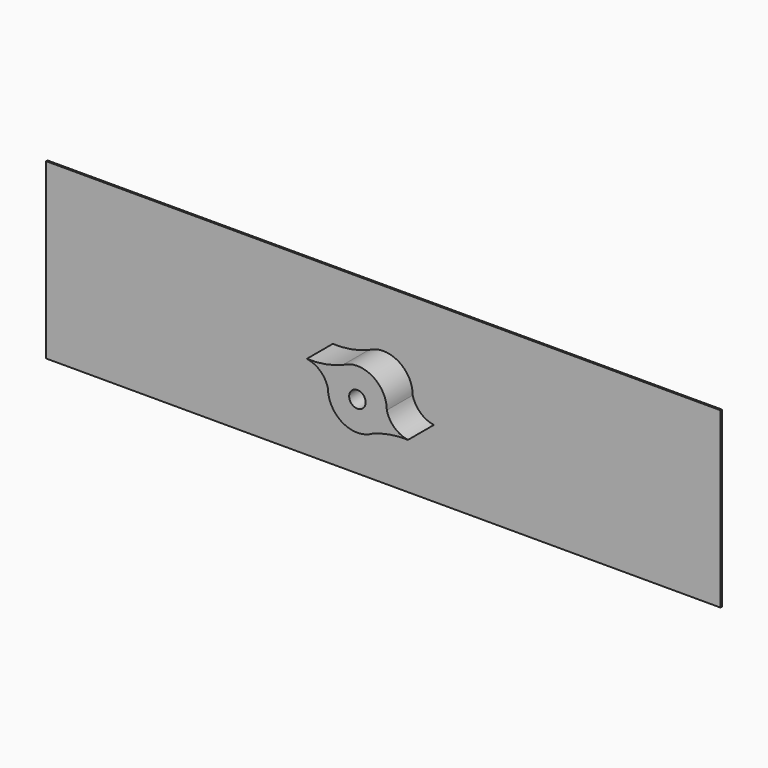
from build123d import *

# Parameters (mm, degrees)
F3_DEPTH = 62
F1_W     = 1227
F1_H     = 316
F4_DEPTH = 3.1


with BuildPart() as f3:
    # F0 (on Front) → F3 (new body, through all)
    with BuildSketch(Plane.XZ):
        with BuildLine():
            ThreePointArc((-92, 35), (-67.3964487266, 23.3889064007), (-53.5, 0))
            ThreePointArc((-53.5, 0), (-26.8747093008, -46.2601340249), (26.5, -46.4758001545))
            ThreePointArc((26.5, -46.4758001545), (58.6491573303, -37.3084925992), (92, -35))
            ThreePointArc((92, -35), (67.3964487266, -23.3889064007), (53.5, 0))
            ThreePointArc((53.5, 0), (26.8747093008, 46.2601340249), (-26.5, 46.4758001545))
            ThreePointArc((-26.5, 46.4758001545), (-58.6491573303, 37.3084925992), (-92, 35))
        make_face()
        with BuildLine():
            ThreePointArc((0, 46), (46, 0), (0, -46))
            ThreePointArc((0, -46), (-46, 0), (0, 46))
        make_face(mode=Mode.SUBTRACT)
        with BuildLine():
            ThreePointArc((0, 46), (-46, 0), (0, -46))
            ThreePointArc((0, -46), (46, 0), (0, 46))
        make_face()
        with BuildLine():
            ThreePointArc((0, 15), (15, 0), (0, -15))
            ThreePointArc((0, -15), (-15, 0), (0, 15))
        make_face(mode=Mode.SUBTRACT)
    extrude(amount=F3_DEPTH)


with BuildPart() as f4:
    # F1 (on Front) → F4 (new body)
    with BuildSketch(Plane.XZ):
        Rectangle(F1_W, F1_H)
    extrude(amount=F4_DEPTH)


solid = Compound([f3.part, f4.part])
